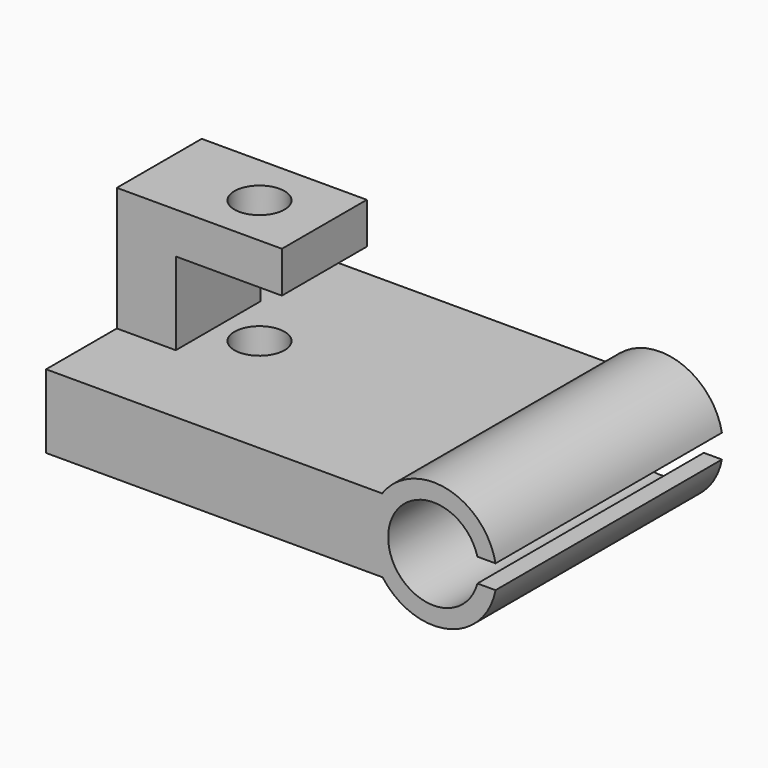
from build123d import *

# Parameters (mm, degrees)
F2_R      = 7.7
F3_DEPTH  = 48
F4_R      = 4.25
F5_DEPTH  = 30
F6_W      = 28
F6_H      = 18
F6_R      = 4.25
F7_DEPTH  = 21
F8_W      = 18
F8_H      = 14
F9_DEPTH  = 25
F10_R     = 4.25
F11_DEPTH = 25
F12_DEPTH = 60
F14_DEPTH = 48


with BuildPart() as f3:
    # F2 (on Front) → F3 (new body)
    with BuildSketch(Plane.XZ):
        with BuildLine():
            Line((-57.0810220509, 0), (0, 0))
            ThreePointArc((0, 0), (-2.0556624872, 6.2369382637), (-0.0810220509, 12.5))
            Line((-0.0810220509, 12.5), (-57.0810220509, 12.5))
            Line((-57.0810220509, 12.5), (-57.0810220509, 0))
        make_face()
        with BuildLine():
            Line((-0.0810220509, 12.5), (0, 0))
            ThreePointArc((0, 0), (11.9605862967, -3.8667611144), (19.344112749, 6.3062916824))
            ThreePointArc((19.344112749, 6.3062916824), (11.894578688, 16.5006269319), (-0.0810220509, 12.5))
        make_face()
        with Locations((8.644112749, 6.3062916824)):
            Circle(F2_R, mode=Mode.SUBTRACT)
        with BuildLine():
            ThreePointArc((-0.0810220509, 12.5), (-2.0556624872, 6.2369382637), (0, 0))
            Line((0, 0), (-0.0810220509, 12.5))
        make_face()
    extrude(amount=F3_DEPTH)

    # F4 (on face) → F5 (cut)
    with BuildSketch(Plane(origin=(-57.0810220509, 0, 0), x_dir=(0, -1, 0), z_dir=(-1, 0, 0))):
        with Locations((6.25, 6.25)):
            Circle(F4_R)
        with Locations((41.75, 6.25)):
            Circle(F4_R)
    extrude(amount=-F5_DEPTH, mode=Mode.SUBTRACT)


with BuildPart() as f7:
    # F6 (on face) → F7 (new body)
    with BuildSketch(Plane.XY.offset(12.5)):
        with Locations((-43.0810220509, -24)):
            Rectangle(F6_W, F6_H)
        with Locations((-40.0810220509, -24)):
            Circle(F6_R, mode=Mode.SUBTRACT)
    extrude(amount=F7_DEPTH)

    # F8 (on face) → F9 (cut)
    with BuildSketch(Plane.XZ.offset(33)):
        with Locations((-38.0810220509, 19.5)):
            Rectangle(F8_W, F8_H)
    extrude(amount=-F9_DEPTH, mode=Mode.SUBTRACT)


with BuildPart() as f11:
    # F10 (on face) → F11 (new body)
    with BuildSketch(Plane.XY.offset(33.5)):
        with Locations((-40.0810220509, -24)):
            Circle(F10_R)
    extrude(amount=F11_DEPTH)


with BuildPart() as f12_tool:
    # F12 (cut): a face of the model
    f12_faces = [f11.part.faces().sort_by_distance(p)[0] for p in [
        (-40.0810220509, -24, 58.5),
    ]]
    extrude(f12_faces, amount=-F12_DEPTH)


with BuildPart() as f3_1:
    add(f3.part)

    # F12: cut by f12_tool
    add(f12_tool.part, mode=Mode.SUBTRACT)

    # F13 (on face) → F14 (cut)
    with BuildSketch(Plane.XZ.offset(48)):
        with BuildLine():
            ThreePointArc((19.1555351075, 4.3062916824), (19.2968640189, 5.3018563277), (19.344112749, 6.3062916824))
            ThreePointArc((19.344112749, 6.3062916824), (19.2968640189, 7.3107270371), (19.1555351075, 8.3062916824))
            Line((19.1555351075, 8.3062916824), (16.079837327, 8.3062916824))
            ThreePointArc((16.079837327, 8.3062916824), (16.2777579873, 7.3149840907), (16.344112749, 6.3062916824))
            ThreePointArc((16.344112749, 6.3062916824), (16.2777579873, 5.297599274), (16.079837327, 4.3062916824))
            Line((16.079837327, 4.3062916824), (19.1555351075, 4.3062916824))
        make_face()
        with BuildLine():
            Line((16.079837327, 8.3062916824), (16.079837327, 4.3062916824))
            ThreePointArc((16.079837327, 4.3062916824), (16.2777579873, 5.297599274), (16.344112749, 6.3062916824))
            ThreePointArc((16.344112749, 6.3062916824), (16.2777579873, 7.3149840907), (16.079837327, 8.3062916824))
        make_face()
    extrude(amount=-F14_DEPTH, mode=Mode.SUBTRACT)


with BuildPart() as f11_1:
    add(f11.part)

    # F12: cut by f12_tool
    add(f12_tool.part, mode=Mode.SUBTRACT)


solid = Compound([f7.part, f3_1.part])
